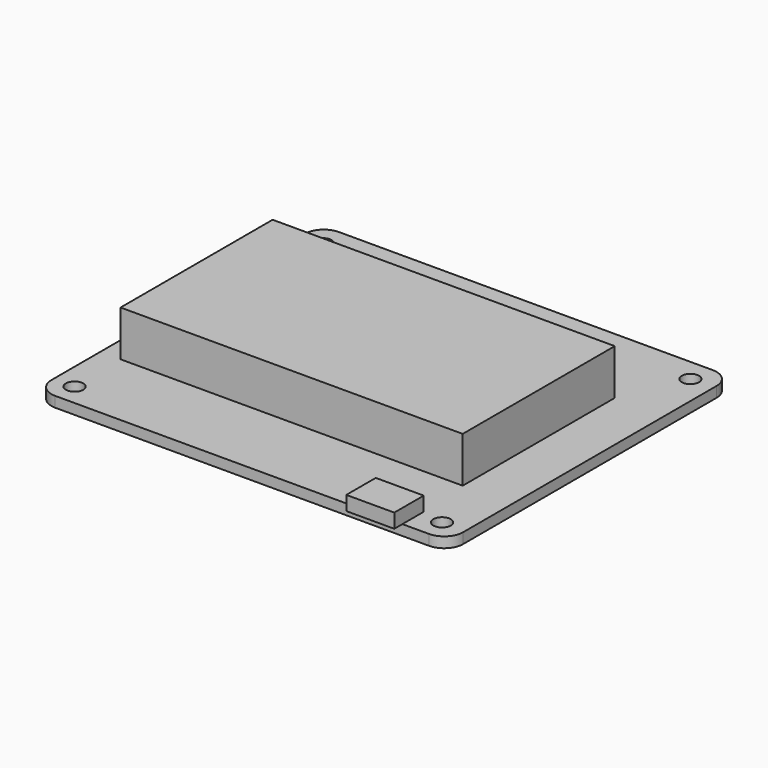
from build123d import *

# Parameters (mm, degrees)
SKETCH_R     = 1.375
PAD_DEPTH    = 1.65
SKETCH001_W  = 54
SKETCH001_H  = 30
PAD001_DEPTH = 7.2
SKETCH002_W  = 7.57
SKETCH002_H  = 5.81
PAD002_DEPTH = 2.25


with BuildPart() as part:
    # Sketch (on Face4 of Binder) → Pad (new body)
    with BuildSketch(Plane.XY.offset(10.5)):
        with BuildLine():
            Line((-48.266962, 27.485719), (-48.266962, 10.985719))
            Line((-43.266962, 10.985719), (-48.266962, 10.985719))
            Line((-43.266962, -6.711357), (-43.266962, 10.985719))
            Line((-48.266962, -6.711357), (-43.266962, -6.711357))
            Line((-48.266962, -6.711357), (-48.266967, -22.514281))
            ThreePointArc((-48.266967, -22.514281), (-47.388287, -24.635602), (-45.266967, -25.514281))
            Line((-45.266967, -25.514281), (13.733038, -25.514281))
            ThreePointArc((13.733038, -25.514281), (15.854358, -24.635602), (16.733038, -22.514281))
            Line((16.733038, -22.514281), (16.733038, 27.485719))
            ThreePointArc((16.733038, 27.485719), (15.854358, 29.607039), (13.733038, 30.485719))
            Line((13.733038, 30.485719), (-45.266962, 30.485719))
            ThreePointArc((-45.266962, 30.485719), (-47.388282, 29.607039), (-48.266962, 27.485719))
        make_face()
        with Locations((-44.941962, 26.910719)):
            Circle(SKETCH_R, mode=Mode.SUBTRACT)
        with Locations((13.058038, 26.910719)):
            Circle(SKETCH_R, mode=Mode.SUBTRACT)
        with Locations((13.058038, -22.089281)):
            Circle(SKETCH_R, mode=Mode.SUBTRACT)
        with Locations((-44.941962, -22.089281)):
            Circle(SKETCH_R, mode=Mode.SUBTRACT)
    extrude(amount=PAD_DEPTH)

    # Sketch001 (on Face18 of Pad) → Pad001 (join)
    with BuildSketch(Plane.XY.offset(12.15)):
        with Locations((-18.066962, 2.137181)):
            Rectangle(SKETCH001_W, SKETCH001_H)
    extrude(amount=PAD001_DEPTH)

    # Sketch002 (on Face5 of Pad001) → Pad002 (join)
    with BuildSketch(Plane.XY.offset(12.15)):
        with Locations((5.748038, -24.209281)):
            Rectangle(SKETCH002_W, SKETCH002_H)
    extrude(amount=PAD002_DEPTH)


solid = part.part
